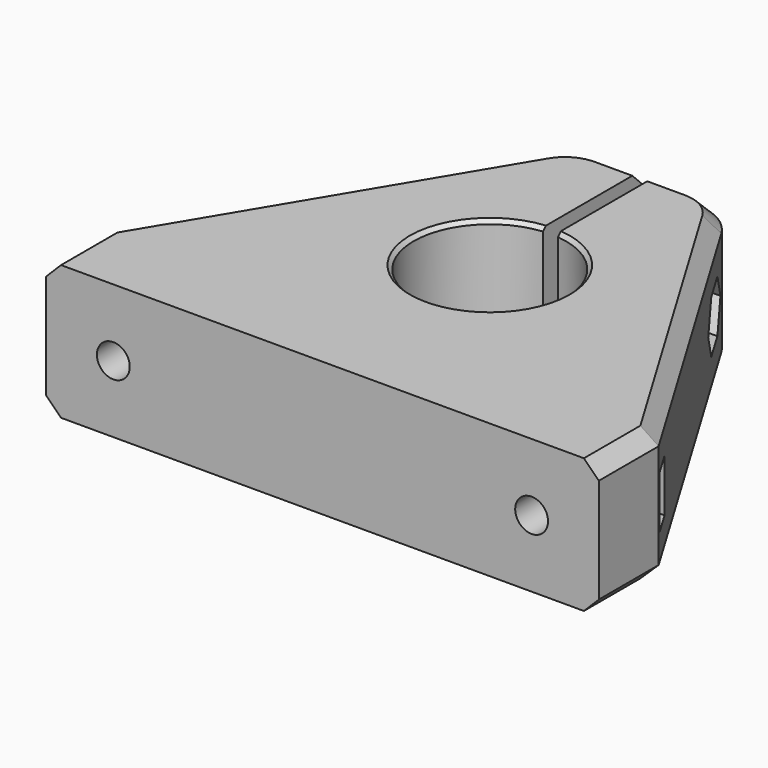
from build123d import *

# Parameters (mm, degrees)
SKETCH009_R     = 4.5
PAD003_DEPTH    = 30
PAD002_DEPTH    = 20
PAD001_DEPTH    = 3.5
SKETCH_W        = 74
SKETCH_H        = 55.1
PAD_DEPTH       = 18
SKETCH001_R     = 10.2
POCKET_DEPTH    = 18.001
POCKET001_DEPTH = 18.001
SKETCH004_W     = 2
SKETCH004_H     = 24.324561
POCKET002_DEPTH = 18.001
SKETCH006_R     = 2.2
POCKET003_DEPTH = 18
SKETCH008_R     = 2.2
POCKET004_DEPTH = 41.001
FILLET_R        = 7
FILLET001_R     = 7
CHAMFER_SIZE    = 2
CHAMFER001_SIZE = 2
CHAMFER002_SIZE = 0.5
CHAMFER003_SIZE = 0.5


with BuildPart() as pad003:
    # Sketch009 → Pad003 (new body)
    with BuildSketch(Plane.YZ.offset(-4)):
        with Locations((19.05, 9)):
            Circle(SKETCH009_R)
    extrude(amount=-PAD003_DEPTH)


with BuildPart() as pad002:
    # Sketch007 → Pad002 (new body)
    with BuildSketch(Plane.YZ.offset(4)):
        Polygon((21.08516, 12.525), (17.01484, 12.525), (14.979681, 9), (17.01484, 5.475), (21.08516, 5.475), (23.120319, 9), align=None)
    extrude(amount=PAD002_DEPTH)


with BuildPart() as pad001:
    # Sketch005 → Pad001 (new body)
    with BuildSketch(Plane.XZ.offset(17.55)):
        Polygon((-23.929681, 9), (-25.96484, 12.525), (-30.03516, 12.525), (-37, 12.525), (-37, 5.475), (-30.03516, 5.475), (-25.96484, 5.475), align=None)
        Polygon((23.929681, 9), (25.96484, 5.475), (30.03516, 5.475), (37, 5.475), (37, 12.525), (30.03516, 12.525), (25.96484, 12.525), align=None)
    extrude(amount=-PAD001_DEPTH)


with BuildPart() as chamfer003:
    # Sketch → Pad (new body)
    with BuildSketch(Plane.XY):
        with Locations((0, -0.45)):
            Rectangle(SKETCH_W, SKETCH_H)
    extrude(amount=PAD_DEPTH)

    # Sketch001 → Pocket (cut, through all)
    with BuildSketch(Plane.XY.offset(18)):
        Circle(SKETCH001_R)
    extrude(amount=-POCKET_DEPTH, mode=Mode.SUBTRACT)

    # Sketch003 → Pocket001 (cut, through all)
    with BuildSketch(Plane.XY.offset(18)):
        Polygon((-37, -18), (-10, 27.1), (-37, 27.1), align=None)
        Polygon((37, -18), (10, 27.1), (37, 27.1), align=None)
    extrude(amount=-POCKET001_DEPTH, mode=Mode.SUBTRACT)

    # Sketch004 → Pocket002 (cut, through all)
    with BuildSketch(Plane.XY.offset(18)):
        with Locations((0, 17.305189)):
            Rectangle(SKETCH004_W, SKETCH004_H)
    extrude(amount=-POCKET002_DEPTH, mode=Mode.SUBTRACT)

    # Cut: cut Pad001
    add(pad001.part, mode=Mode.SUBTRACT)

    # Sketch006 → Pocket003 (cut)
    with BuildSketch(Plane.XZ.offset(28)):
        with Locations((-28, 9)):
            Circle(SKETCH006_R)
        with Locations((28, 9)):
            Circle(SKETCH006_R)
    extrude(amount=-POCKET003_DEPTH, mode=Mode.SUBTRACT)

    # Cut001: cut Pad002
    add(pad002.part, mode=Mode.SUBTRACT)

    # Sketch008 → Pocket004 (cut, through all)
    with BuildSketch(Plane.YZ.offset(4)):
        with Locations((19.05, 9)):
            Circle(SKETCH008_R)
    extrude(amount=-POCKET004_DEPTH, mode=Mode.SUBTRACT)

    # Cut002: cut Pad003
    add(pad003.part, mode=Mode.SUBTRACT)

    # Fillet
    fillet_edges = [chamfer003.edges().sort_by_distance(p)[0] for p in [
        (10, 27.1, 9),
    ]]
    fillet(fillet_edges, radius=FILLET_R)

    # Fillet001
    fillet001_edges = [chamfer003.edges().sort_by_distance(p)[0] for p in [
        (-10, 27.1, 9),
    ]]
    fillet(fillet001_edges, radius=FILLET001_R)

    # Chamfer
    chamfer_edges = [chamfer003.edges().sort_by_distance(p)[0] for p in [
        (9.484015, 26.189711, 18),
        (-37, -23, 18),
        (-24.519057, 2.847797, 18),
        (-9.484015, 26.189711, 18),
        (-3.516071, 27.1, 18),
        (3.516071, 27.1, 18),
        (24.519057, 2.847797, 18),
        (37, -23, 18),
    ]]
    chamfer(chamfer_edges, length=CHAMFER_SIZE)

    # Chamfer001
    chamfer001_edges = [chamfer003.edges().sort_by_distance(p)[0] for p in [
        (37, -23, 0),
        (24.519057, 2.847797, 0),
        (9.484015, 26.189711, 0),
        (3.516071, 27.1, 0),
        (-3.516071, 27.1, 0),
        (-9.484015, 26.189711, 0),
        (-24.519057, 2.847797, 0),
        (-37, -23, 0),
    ]]
    chamfer(chamfer001_edges, length=CHAMFER001_SIZE)

    # Chamfer002
    chamfer002_edges = [chamfer003.edges().sort_by_distance(p)[0] for p in [
        (-6.849818, -7.557777, 0),
        (7.557777, 6.849818, 0),
    ]]
    chamfer(chamfer002_edges, length=CHAMFER002_SIZE)

    # Chamfer003
    chamfer003_edges = [chamfer003.edges().sort_by_distance(p)[0] for p in [
        (-6.849818, -7.557777, 18),
        (7.557777, 6.849818, 18),
    ]]
    chamfer(chamfer003_edges, length=CHAMFER003_SIZE)


solid = chamfer003.part
